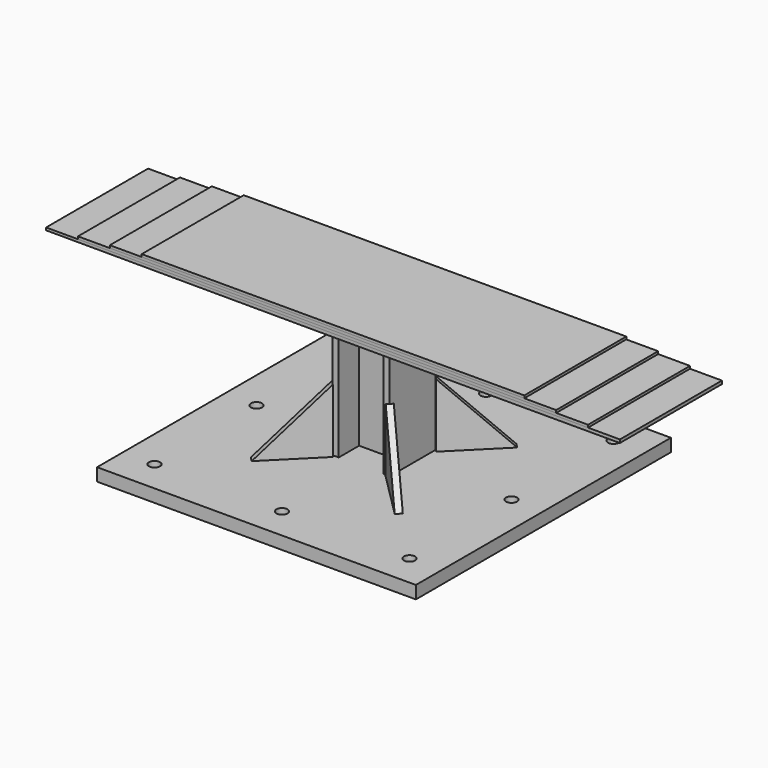
from build123d import *

# Parameters (mm, degrees)
F0_W           = 500
F0_H           = 500
F1_DEPTH       = 20
F4_DEPTH       = 200
F9_D           = 17.5
F9_ON_F8_D     = 17.5
F11_DEPTH      = 100
F11_DEPTH_BACK = 100
F12_W          = 800
F12_H          = 4
F13_DEPTH      = 100
F13_DEPTH_BACK = 100
F15_DEPTH      = 100
F15_DEPTH_BACK = 100
F16_W          = 600
F16_H          = 4
F17_DEPTH      = 100
F17_DEPTH_BACK = 100
F19_DEPTH      = 100
F21_DEPTH      = 10
F23_COUNT      = 4


with BuildPart() as f1:
    # F0 (on Top) → F1 (new body)
    with BuildSketch(Plane.XY):
        Rectangle(F0_W, F0_H)
    extrude(amount=F1_DEPTH)

    # F3 (on face) → F4 (join)
    with BuildSketch(Plane.XY.offset(20)):
        Polygon((45, -45), (45, 45), (35, 45), (35, 5), (-35, 5), (-35, 45), (-45, 45), (-45, -45), (-35, -45), (-35, -5), (35, -5), (35, -45), align=None)
    extrude(amount=F4_DEPTH)

    # F9 (through all)
    with Locations(Plane.XY.offset(20)):
        with Locations((-200, 0), (0, -200), (200, 0), (0, 200)):
            Hole(F9_D / 2)

    # F9 on F8 (through all)
    with Locations(Plane.XY.offset(20)):
        with Locations((-200, 200), (200, 200), (200, -200), (-200, -200)):
            Hole(F9_ON_F8_D / 2)


with BuildPart() as f11:
    # F10 (on Front) → F11 (new body, two sides)
    with BuildSketch(Plane.XZ) as f11_sk:
        Polygon((-450, 221), (0, 220), (450, 220), (450, 225), (-450, 225), align=None)
    extrude(amount=F11_DEPTH)
    extrude(f11_sk.sketch, amount=-F11_DEPTH_BACK)


with BuildPart() as f13:
    # F12 (on Front) → F13 (new body, two sides)
    with BuildSketch(Plane.XZ) as f13_sk:
        with Locations((0, 227)):
            Rectangle(F12_W, F12_H)
    extrude(amount=F13_DEPTH)
    extrude(f13_sk.sketch, amount=-F13_DEPTH_BACK)


with BuildPart() as f15:
    # F14 (on Front) → F15 (new body, two sides)
    with BuildSketch(Plane.XZ) as f15_sk:
        Polygon((-350, 229), (0, 229), (350, 229), (350, 233), (-350, 233), align=None)
    extrude(amount=F15_DEPTH)
    extrude(f15_sk.sketch, amount=-F15_DEPTH_BACK)


with BuildPart() as f17:
    # F16 (on Front) → F17 (new body, two sides)
    with BuildSketch(Plane.XZ) as f17_sk:
        with Locations((0, 235)):
            Rectangle(F16_W, F16_H)
    extrude(amount=F17_DEPTH)
    extrude(f17_sk.sketch, amount=-F17_DEPTH_BACK)


with BuildPart() as f19:
    # F18 (on face) → F19 (new body)
    with BuildSketch(Plane.XY.offset(20)):
        Polygon((112.1751442127, 119.2462120246), (41.4644660941, 48.5355339059), (48.5355339059, 41.4644660941), (119.2462120246, 112.1751442127), align=None)
    extrude(amount=F19_DEPTH)

    # F20 (on face) → F21 (cut)
    with BuildSketch(Plane(origin=(-3.5355339059, 3.5355339059, 0), x_dir=(-0.7071067812, -0.7071067812, 0), z_dir=(-0.7071067812, 0.7071067812, 0))):
        Polygon((-163.6396103068, 20), (-63.6396103068, 120), (-163.6396103068, 120), align=None)
    extrude(amount=-F21_DEPTH, mode=Mode.SUBTRACT)


with BuildPart() as f23_1:
    # F23: instance of F19
    add(f19.part.rotate(Axis((0, 0, 140.2709931135), (0, 0, 1)), 1 * 360 / F23_COUNT))


with BuildPart() as f23_2:
    # F23: instance of F19
    add(f19.part.rotate(Axis((0, 0, 140.2709931135), (0, 0, 1)), 2 * 360 / F23_COUNT))


with BuildPart() as f23_3:
    # F23: instance of F19
    add(f19.part.rotate(Axis((0, 0, 140.2709931135), (0, 0, 1)), 3 * 360 / F23_COUNT))


solid = Compound([f1.part, f11.part, f13.part, f15.part, f17.part, f19.part, f23_1.part, f23_2.part, f23_3.part])
